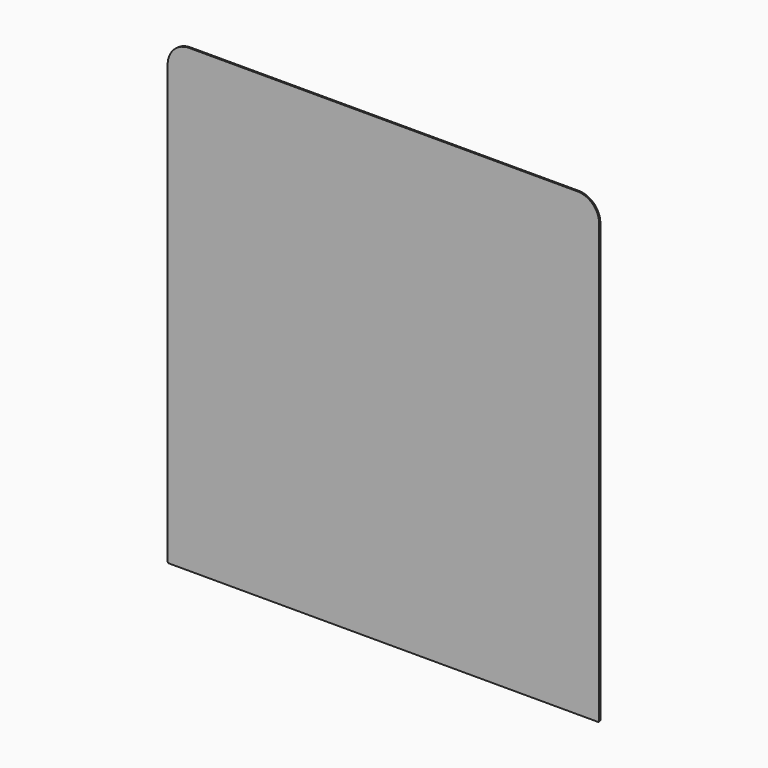
from build123d import *

# Parameters (mm, degrees)
F0_W     = 900
F0_H     = 960
F1_DEPTH = 3
F2_R     = 45
F3_R     = 3


with BuildPart() as f1:
    # F0 (on Front) → F1 (new body)
    with BuildSketch(Plane.XZ):
        with Locations((450, 480)):
            Rectangle(F0_W, F0_H)
    extrude(amount=F1_DEPTH)

    # F2
    f2_edges = [f1.edges().sort_by_distance(p)[0] for p in [
        (900, -1.5, 960),
        (0, -1.5, 960),
    ]]
    fillet(f2_edges, radius=F2_R)

    # F3
    f3_edges = [f1.edges().sort_by_distance(p)[0] for p in [
        (900, -1.5, 0),
        (0, -1.5, 0),
    ]]
    fillet(f3_edges, radius=F3_R)


solid = f1.part
